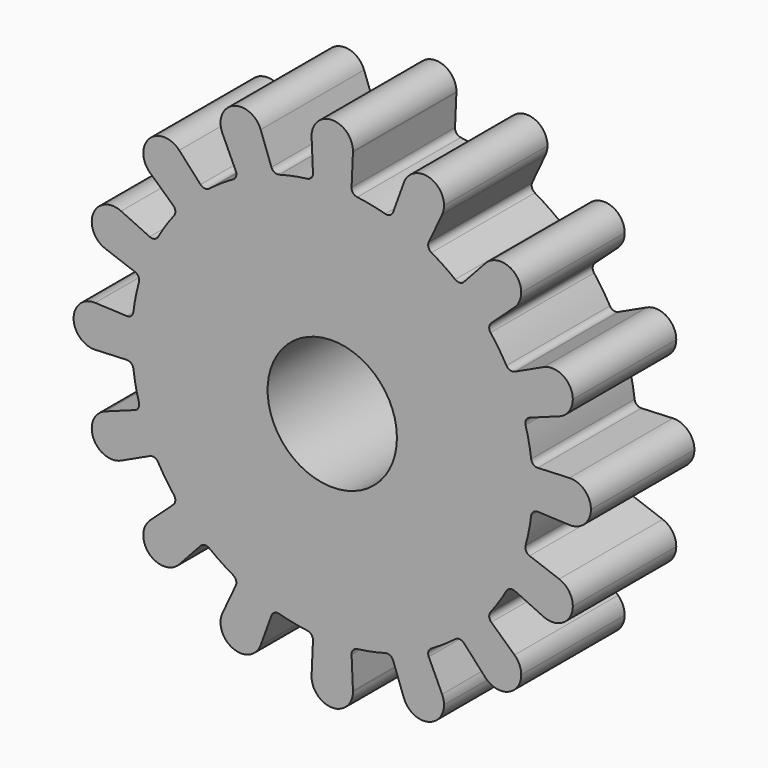
from build123d import *

# Parameters (mm, degrees)
F0_R     = 5
F1_DEPTH = 10


with BuildPart() as f1:
    # F0 (on Front) → F1 (new body)
    with BuildSketch(Plane.XZ):
        with BuildLine():
            ThreePointArc((15.379389, -1.929869), (15.469818, -0.966817), (15.5, 0))
            ThreePointArc((15.5, 0), (15.469818, 0.966817), (15.379389, 1.929869))
            ThreePointArc((15.379389, 1.929869), (15.202172, 3.0239), (14.947232, 4.102471))
            ThreePointArc((14.947232, 4.102471), (14.320133, 5.931593), (13.470174, 7.668404))
            ThreePointArc((13.470174, 7.668404), (12.887779, 8.611339), (12.239494, 9.510247))
            ThreePointArc((12.239494, 9.510247), (10.960155, 10.960155), (9.510247, 12.239494))
            ThreePointArc((9.510247, 12.239494), (8.611339, 12.887779), (7.668404, 13.470174))
            ThreePointArc((7.668404, 13.470174), (5.931593, 14.320133), (4.102471, 14.947232))
            ThreePointArc((4.102471, 14.947232), (3.0239, 15.202172), (1.929869, 15.379389))
            ThreePointArc((1.929869, 15.379389), (0, 15.5), (-1.929869, 15.379389))
            ThreePointArc((-1.929869, 15.379389), (-3.0239, 15.202172), (-4.102471, 14.947232))
            ThreePointArc((-4.102471, 14.947232), (-5.931593, 14.320133), (-7.668404, 13.470174))
            ThreePointArc((-7.668404, 13.470174), (-8.611339, 12.887779), (-9.510247, 12.239494))
            ThreePointArc((-9.510247, 12.239494), (-10.960155, 10.960155), (-12.239494, 9.510247))
            ThreePointArc((-12.239494, 9.510247), (-12.887779, 8.611339), (-13.470174, 7.668404))
            ThreePointArc((-13.470174, 7.668404), (-14.320133, 5.931593), (-14.947232, 4.102471))
            ThreePointArc((-14.947232, 4.102471), (-15.202172, 3.0239), (-15.379389, 1.929869))
            ThreePointArc((-15.379389, 1.929869), (-15.5, 0), (-15.379389, -1.929869))
            ThreePointArc((-15.379389, -1.929869), (-15.202172, -3.0239), (-14.947232, -4.102471))
            ThreePointArc((-14.947232, -4.102471), (-14.320133, -5.931593), (-13.470174, -7.668404))
            ThreePointArc((-13.470174, -7.668404), (-12.887779, -8.611339), (-12.239494, -9.510247))
            ThreePointArc((-12.239494, -9.510247), (-10.960155, -10.960155), (-9.510247, -12.239494))
            ThreePointArc((-9.510247, -12.239494), (-8.611339, -12.887779), (-7.668404, -13.470174))
            ThreePointArc((-7.668404, -13.470174), (-5.931593, -14.320133), (-4.102471, -14.947232))
            ThreePointArc((-4.102471, -14.947232), (-3.0239, -15.202172), (-1.929869, -15.379389))
            ThreePointArc((-1.929869, -15.379389), (0, -15.5), (1.929869, -15.379389))
            ThreePointArc((1.929869, -15.379389), (3.0239, -15.202172), (4.102471, -14.947232))
            ThreePointArc((4.102471, -14.947232), (5.931593, -14.320133), (7.668404, -13.470174))
            ThreePointArc((7.668404, -13.470174), (8.611339, -12.887779), (9.510247, -12.239494))
            ThreePointArc((9.510247, -12.239494), (10.960155, -10.960155), (12.239494, -9.510247))
            ThreePointArc((12.239494, -9.510247), (12.887779, -8.611339), (13.470174, -7.668404))
            ThreePointArc((13.470174, -7.668404), (14.320133, -5.931593), (14.947232, -4.102471))
            ThreePointArc((14.947232, -4.102471), (15.202172, -3.0239), (15.379389, -1.929869))
        make_face()
        Circle(F0_R, mode=Mode.SUBTRACT)
        with BuildLine():
            ThreePointArc((15.379389, 1.929869), (15.469818, 0.966817), (15.5, 0))
            ThreePointArc((15.5, 0), (15.469818, -0.966817), (15.379389, -1.929869))
            ThreePointArc((15.379389, -1.929869), (15.552917, -1.6101), (15.897237, -1.492596))
            Line((15.897237, -1.492596), (18.330435, -1.598487))
            ThreePointArc((18.330435, -1.598487), (16.8, 0), (18.330435, 1.598487))
            Line((18.330435, 1.598487), (15.897237, 1.492596))
            ThreePointArc((15.897237, 1.492596), (15.552917, 1.6101), (15.379389, 1.929869))
        make_face()
        with BuildLine():
            ThreePointArc((13.470174, 7.668404), (14.320133, 5.931593), (14.947232, 4.102471))
            ThreePointArc((14.947232, 4.102471), (14.98518, 4.464305), (15.258324, 4.704631))
            Line((15.258324, 4.704631), (17.546828, 5.537944))
            ThreePointArc((17.546828, 5.537944), (15.521176, 6.429082), (16.323399, 8.491563))
            Line((16.323399, 8.491563), (14.115941, 7.462588))
            ThreePointArc((14.115941, 7.462588), (13.752863, 7.439382), (13.470174, 7.668404))
        make_face()
        with BuildLine():
            ThreePointArc((15.258324, -4.704631), (14.98518, -4.464305), (14.947232, -4.102471))
            ThreePointArc((14.947232, -4.102471), (14.320133, -5.931593), (13.470174, -7.668404))
            ThreePointArc((13.470174, -7.668404), (13.752863, -7.439382), (14.115941, -7.462588))
            Line((14.115941, -7.462588), (16.323399, -8.491563))
            ThreePointArc((16.323399, -8.491563), (15.521176, -6.429082), (17.546828, -5.537944))
            Line((17.546828, -5.537944), (15.258324, -4.704631))
        make_face()
        with BuildLine():
            ThreePointArc((20, 0), (19.506503, 1.155704), (18.330435, 1.598487))
            ThreePointArc((18.330435, 1.598487), (16.8, 0), (18.330435, -1.598487))
            ThreePointArc((18.330435, -1.598487), (19.506503, -1.155704), (20, 0))
        make_face()
        with BuildLine():
            ThreePointArc((9.510247, 12.239494), (10.960155, 10.960155), (12.239494, 9.510247))
            ThreePointArc((12.239494, 9.510247), (12.136086, 9.85906), (12.296469, 10.18562))
            Line((12.296469, 10.18562), (14.091876, 11.831274))
            ThreePointArc((14.091876, 11.831274), (11.879394, 11.879394), (11.831274, 14.091876))
            Line((11.831274, 14.091876), (10.18562, 12.296469))
            ThreePointArc((10.18562, 12.296469), (9.85906, 12.136086), (9.510247, 12.239494))
        make_face()
        with BuildLine():
            ThreePointArc((16.323399, 8.491563), (15.521176, 6.429082), (17.546828, 5.537944))
            ThreePointArc((17.546828, 5.537944), (18.310091, 6.123745), (18.599383, 7.041375))
            ThreePointArc((18.599383, 7.041375), (17.859158, 8.390741), (16.323399, 8.491563))
        make_face()
        with BuildLine():
            ThreePointArc((12.296469, -10.18562), (12.136086, -9.85906), (12.239494, -9.510247))
            ThreePointArc((12.239494, -9.510247), (10.960155, -10.960155), (9.510247, -12.239494))
            ThreePointArc((9.510247, -12.239494), (9.85906, -12.136086), (10.18562, -12.296469))
            Line((10.18562, -12.296469), (11.831274, -14.091876))
            ThreePointArc((11.831274, -14.091876), (11.879394, -11.879394), (14.091876, -11.831274))
            Line((14.091876, -11.831274), (12.296469, -10.18562))
        make_face()
        with BuildLine():
            ThreePointArc((18.599383, -7.041375), (18.310091, -6.123745), (17.546828, -5.537944))
            ThreePointArc((17.546828, -5.537944), (15.521176, -6.429082), (16.323399, -8.491563))
            ThreePointArc((16.323399, -8.491563), (17.859158, -8.390741), (18.599383, -7.041375))
        make_face()
        with BuildLine():
            ThreePointArc((4.102471, 14.947232), (5.931593, 14.320133), (7.668404, 13.470174))
            ThreePointArc((7.668404, 13.470174), (7.439382, 13.752863), (7.462588, 14.115941))
            Line((7.462588, 14.115941), (8.491563, 16.323399))
            ThreePointArc((8.491563, 16.323399), (6.429082, 15.521176), (5.537944, 17.546828))
            Line((5.537944, 17.546828), (4.704631, 15.258324))
            ThreePointArc((4.704631, 15.258324), (4.464305, 14.98518), (4.102471, 14.947232))
        make_face()
        with BuildLine():
            ThreePointArc((11.831274, 14.091876), (11.879394, 11.879394), (14.091876, 11.831274))
            ThreePointArc((14.091876, 11.831274), (14.475309, 12.366474), (14.610765, 13.010765))
            ThreePointArc((14.610765, 13.010765), (13.590771, 14.501936), (11.831274, 14.091876))
        make_face()
        with BuildLine():
            ThreePointArc((7.462588, -14.115941), (7.439382, -13.752863), (7.668404, -13.470174))
            ThreePointArc((7.668404, -13.470174), (5.931593, -14.320133), (4.102471, -14.947232))
            ThreePointArc((4.102471, -14.947232), (4.464305, -14.98518), (4.704631, -15.258324))
            Line((4.704631, -15.258324), (5.537944, -17.546828))
            ThreePointArc((5.537944, -17.546828), (6.429082, -15.521176), (8.491563, -16.323399))
            Line((8.491563, -16.323399), (7.462588, -14.115941))
        make_face()
        with BuildLine():
            ThreePointArc((14.610765, -13.010765), (14.475309, -12.366474), (14.091876, -11.831274))
            ThreePointArc((14.091876, -11.831274), (11.879394, -11.879394), (11.831274, -14.091876))
            ThreePointArc((11.831274, -14.091876), (13.590771, -14.501936), (14.610765, -13.010765))
        make_face()
        with BuildLine():
            ThreePointArc((-1.929869, 15.379389), (0, 15.5), (1.929869, 15.379389))
            ThreePointArc((1.929869, 15.379389), (1.6101, 15.552917), (1.492596, 15.897237))
            Line((1.492596, 15.897237), (1.598487, 18.330435))
            ThreePointArc((1.598487, 18.330435), (0, 16.8), (-1.598487, 18.330435))
            Line((-1.598487, 18.330435), (-1.492596, 15.897237))
            ThreePointArc((-1.492596, 15.897237), (-1.6101, 15.552917), (-1.929869, 15.379389))
        make_face()
        with BuildLine():
            ThreePointArc((5.537944, 17.546828), (6.429082, 15.521176), (8.491563, 16.323399))
            ThreePointArc((8.491563, 16.323399), (8.603473, 16.65319), (8.641375, 16.999383))
            ThreePointArc((8.641375, 16.999383), (7.319324, 18.575056), (5.537944, 17.546828))
        make_face()
        with BuildLine():
            ThreePointArc((1.492596, -15.897237), (1.6101, -15.552917), (1.929869, -15.379389))
            ThreePointArc((1.929869, -15.379389), (0, -15.5), (-1.929869, -15.379389))
            ThreePointArc((-1.929869, -15.379389), (-1.6101, -15.552917), (-1.492596, -15.897237))
            Line((-1.492596, -15.897237), (-1.598487, -18.330435))
            ThreePointArc((-1.598487, -18.330435), (0, -16.8), (1.598487, -18.330435))
            Line((1.598487, -18.330435), (1.492596, -15.897237))
        make_face()
        with BuildLine():
            ThreePointArc((8.641375, -16.999383), (8.603473, -16.65319), (8.491563, -16.323399))
            ThreePointArc((8.491563, -16.323399), (6.429082, -15.521176), (5.537944, -17.546828))
            ThreePointArc((5.537944, -17.546828), (7.319324, -18.575056), (8.641375, -16.999383))
        make_face()
        with BuildLine():
            ThreePointArc((-7.668404, 13.470174), (-5.931593, 14.320133), (-4.102471, 14.947232))
            ThreePointArc((-4.102471, 14.947232), (-4.464305, 14.98518), (-4.704631, 15.258324))
            Line((-4.704631, 15.258324), (-5.537944, 17.546828))
            ThreePointArc((-5.537944, 17.546828), (-5.465702, 17.277332), (-5.441375, 16.999383))
            ThreePointArc((-5.441375, 16.999383), (-6.695182, 15.437285), (-8.491563, 16.323399))
            Line((-8.491563, 16.323399), (-7.462588, 14.115941))
            ThreePointArc((-7.462588, 14.115941), (-7.439382, 13.752863), (-7.668404, 13.470174))
        make_face()
        with BuildLine():
            ThreePointArc((-1.598487, 18.330435), (0, 16.8), (1.598487, 18.330435))
            ThreePointArc((1.598487, 18.330435), (1.599622, 18.365209), (1.6, 18.4))
            ThreePointArc((1.6, 18.4), (-0.034791, 19.999622), (-1.598487, 18.330435))
        make_face()
        with BuildLine():
            ThreePointArc((-4.704631, -15.258324), (-4.464305, -14.98518), (-4.102471, -14.947232))
            ThreePointArc((-4.102471, -14.947232), (-5.931593, -14.320133), (-7.668404, -13.470174))
            ThreePointArc((-7.668404, -13.470174), (-7.439382, -13.752863), (-7.462588, -14.115941))
            Line((-7.462588, -14.115941), (-8.491563, -16.323399))
            ThreePointArc((-8.491563, -16.323399), (-6.695182, -15.437285), (-5.441375, -16.999383))
            ThreePointArc((-5.441375, -16.999383), (-5.465702, -17.277332), (-5.537944, -17.546828))
            Line((-5.537944, -17.546828), (-4.704631, -15.258324))
        make_face()
        with BuildLine():
            ThreePointArc((1.6, -18.4), (1.599622, -18.365209), (1.598487, -18.330435))
            ThreePointArc((1.598487, -18.330435), (0, -16.8), (-1.598487, -18.330435))
            ThreePointArc((-1.598487, -18.330435), (-0.034791, -19.999622), (1.6, -18.4))
        make_face()
        with BuildLine():
            ThreePointArc((-12.239494, 9.510247), (-10.960155, 10.960155), (-9.510247, 12.239494))
            ThreePointArc((-9.510247, 12.239494), (-9.85906, 12.136086), (-10.18562, 12.296469))
            Line((-10.18562, 12.296469), (-11.831274, 14.091876))
            ThreePointArc((-11.831274, 14.091876), (-11.519593, 13.590771), (-11.410765, 13.010765))
            ThreePointArc((-11.410765, 13.010765), (-12.366474, 11.546221), (-14.091876, 11.831274))
            Line((-14.091876, 11.831274), (-12.296469, 10.18562))
            ThreePointArc((-12.296469, 10.18562), (-12.136086, 9.85906), (-12.239494, 9.510247))
        make_face()
        with BuildLine():
            ThreePointArc((-5.441375, 16.999383), (-5.465702, 17.277332), (-5.537944, 17.546828))
            ThreePointArc((-5.537944, 17.546828), (-7.653669, 18.477591), (-8.491563, 16.323399))
            ThreePointArc((-8.491563, 16.323399), (-6.695182, 15.437285), (-5.441375, 16.999383))
        make_face()
        with BuildLine():
            ThreePointArc((-10.18562, -12.296469), (-9.85906, -12.136086), (-9.510247, -12.239494))
            ThreePointArc((-9.510247, -12.239494), (-10.960155, -10.960155), (-12.239494, -9.510247))
            ThreePointArc((-12.239494, -9.510247), (-12.136086, -9.85906), (-12.296469, -10.18562))
            Line((-12.296469, -10.18562), (-14.091876, -11.831274))
            ThreePointArc((-14.091876, -11.831274), (-12.366474, -11.546221), (-11.410765, -13.010765))
            ThreePointArc((-11.410765, -13.010765), (-11.519593, -13.590771), (-11.831274, -14.091876))
            Line((-11.831274, -14.091876), (-10.18562, -12.296469))
        make_face()
        with BuildLine():
            ThreePointArc((-8.491563, -16.323399), (-7.653669, -18.477591), (-5.537944, -17.546828))
            ThreePointArc((-5.537944, -17.546828), (-5.465702, -17.277332), (-5.441375, -16.999383))
            ThreePointArc((-5.441375, -16.999383), (-6.695182, -15.437285), (-8.491563, -16.323399))
        make_face()
        with BuildLine():
            ThreePointArc((-14.947232, 4.102471), (-14.320133, 5.931593), (-13.470174, 7.668404))
            ThreePointArc((-13.470174, 7.668404), (-13.752863, 7.439382), (-14.115941, 7.462588))
            Line((-14.115941, 7.462588), (-16.323399, 8.491563))
            ThreePointArc((-16.323399, 8.491563), (-15.650018, 7.90115), (-15.399383, 7.041375))
            ThreePointArc((-15.399383, 7.041375), (-16.081754, 5.730667), (-17.546828, 5.537944))
            Line((-17.546828, 5.537944), (-15.258324, 4.704631))
            ThreePointArc((-15.258324, 4.704631), (-14.98518, 4.464305), (-14.947232, 4.102471))
        make_face()
        with BuildLine():
            ThreePointArc((-11.410765, 13.010765), (-11.519593, 13.590771), (-11.831274, 14.091876))
            ThreePointArc((-11.831274, 14.091876), (-14.142136, 14.142136), (-14.091876, 11.831274))
            ThreePointArc((-14.091876, 11.831274), (-12.366474, 11.546221), (-11.410765, 13.010765))
        make_face()
        with BuildLine():
            ThreePointArc((-14.115941, -7.462588), (-13.752863, -7.439382), (-13.470174, -7.668404))
            ThreePointArc((-13.470174, -7.668404), (-14.320133, -5.931593), (-14.947232, -4.102471))
            ThreePointArc((-14.947232, -4.102471), (-14.98518, -4.464305), (-15.258324, -4.704631))
            Line((-15.258324, -4.704631), (-17.546828, -5.537944))
            ThreePointArc((-17.546828, -5.537944), (-16.081754, -5.730667), (-15.399383, -7.041375))
            ThreePointArc((-15.399383, -7.041375), (-15.650018, -7.90115), (-16.323399, -8.491563))
            Line((-16.323399, -8.491563), (-14.115941, -7.462588))
        make_face()
        with BuildLine():
            ThreePointArc((-14.091876, -11.831274), (-14.142136, -14.142136), (-11.831274, -14.091876))
            ThreePointArc((-11.831274, -14.091876), (-11.519593, -13.590771), (-11.410765, -13.010765))
            ThreePointArc((-11.410765, -13.010765), (-12.366474, -11.546221), (-14.091876, -11.831274))
        make_face()
        with BuildLine():
            ThreePointArc((-15.379389, -1.929869), (-15.5, 0), (-15.379389, 1.929869))
            ThreePointArc((-15.379389, 1.929869), (-15.552917, 1.6101), (-15.897237, 1.492596))
            Line((-15.897237, 1.492596), (-18.330435, 1.598487))
            ThreePointArc((-18.330435, 1.598487), (-17.244296, 1.106503), (-16.8, 0))
            ThreePointArc((-16.8, 0), (-17.244296, -1.106503), (-18.330435, -1.598487))
            Line((-18.330435, -1.598487), (-15.897237, -1.492596))
            ThreePointArc((-15.897237, -1.492596), (-15.552917, -1.6101), (-15.379389, -1.929869))
        make_face()
        with BuildLine():
            ThreePointArc((-15.399383, 7.041375), (-15.650018, 7.90115), (-16.323399, 8.491563))
            ThreePointArc((-16.323399, 8.491563), (-18.477591, 7.653669), (-17.546828, 5.537944))
            ThreePointArc((-17.546828, 5.537944), (-16.081754, 5.730667), (-15.399383, 7.041375))
        make_face()
        with BuildLine():
            ThreePointArc((-17.546828, -5.537944), (-18.477591, -7.653669), (-16.323399, -8.491563))
            ThreePointArc((-16.323399, -8.491563), (-15.650018, -7.90115), (-15.399383, -7.041375))
            ThreePointArc((-15.399383, -7.041375), (-16.081754, -5.730667), (-17.546828, -5.537944))
        make_face()
        with BuildLine():
            ThreePointArc((-16.8, 0), (-17.244296, 1.106503), (-18.330435, 1.598487))
            ThreePointArc((-18.330435, 1.598487), (-20, 0), (-18.330435, -1.598487))
            ThreePointArc((-18.330435, -1.598487), (-17.244296, -1.106503), (-16.8, 0))
        make_face()
    extrude(amount=F1_DEPTH)


solid = f1.part
